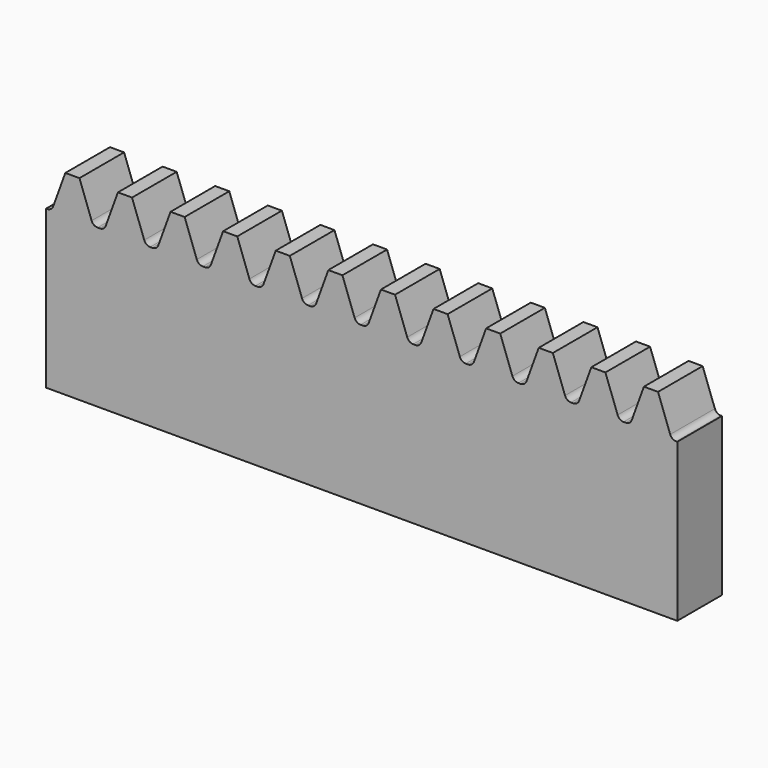
from build123d import *

# Parameters (mm, degrees)
F2_DEPTH = 10


with BuildPart() as f2:
    # F1 (on Front) → F2 (new body)
    with BuildSketch(Plane.XZ):
        with BuildLine():
            Line((3.4480698746, 29.0000970366), (1.2642837874, 35))
            Line((1.2642837874, 35), (-1.2642837874, 35))
            Line((-1.2642837874, 35), (-3.4480698746, 29.0000970366))
            ThreePointArc((-3.4480698746, 29.0000970366), (-3.8654423248, 28.4561666695), (-4.5193194622, 28.25))
            Line((-4.5193194622, 28.25), (-4.7123889804, 28.25))
            Line((-4.7123889804, 28.25), (-4.7123889804, 0))
            Line((-4.7123889804, 0), (4.7123889804, 0))
            Line((4.7123889804, 0), (4.7123889804, 28.25))
            Line((4.7123889804, 28.25), (4.5193194622, 28.25))
            ThreePointArc((4.5193194622, 28.25), (3.8654423248, 28.4561666695), (3.4480698746, 29.0000970366))
        make_face()
        with BuildLine():
            Line((4.9054584985, 28.25), (4.7123889804, 28.25))
            Line((4.7123889804, 28.25), (4.7123889804, 0))
            Line((4.7123889804, 0), (14.1371669412, 0))
            Line((14.1371669412, 0), (14.1371669412, 28.25))
            Line((14.1371669412, 28.25), (13.944097423, 28.25))
            ThreePointArc((13.944097423, 28.25), (13.2902202856, 28.4561666695), (12.8728478353, 29.0000970366))
            Line((12.8728478353, 29.0000970366), (10.6890617482, 35))
            Line((10.6890617482, 35), (8.1604941734, 35))
            Line((8.1604941734, 35), (5.9767080862, 29.0000970366))
            ThreePointArc((5.9767080862, 29.0000970366), (5.559335636, 28.4561666695), (4.9054584985, 28.25))
        make_face()
        with BuildLine():
            Line((14.1371669412, 28.25), (14.1371669412, 0))
            Line((14.1371669412, 0), (23.5619449019, 0))
            Line((23.5619449019, 0), (23.5619449019, 28.25))
            Line((23.5619449019, 28.25), (23.3688753838, 28.25))
            ThreePointArc((23.3688753838, 28.25), (22.7149982463, 28.4561666695), (22.2976257961, 29.0000970366))
            Line((22.2976257961, 29.0000970366), (20.1138397089, 35))
            Line((20.1138397089, 35), (17.5852721341, 35))
            Line((17.5852721341, 35), (15.401486047, 29.0000970366))
            ThreePointArc((15.401486047, 29.0000970366), (14.9841135967, 28.4561666695), (14.3302364593, 28.25))
            Line((14.3302364593, 28.25), (14.1371669412, 28.25))
        make_face()
        with BuildLine():
            Line((23.5619449019, 28.25), (23.5619449019, 0))
            Line((23.5619449019, 0), (32.9867228627, 0))
            Line((32.9867228627, 0), (32.9867228627, 28.25))
            Line((32.9867228627, 28.25), (32.7936533446, 28.25))
            ThreePointArc((32.7936533446, 28.25), (32.1397762071, 28.4561666695), (31.7224037569, 29.0000970366))
            Line((31.7224037569, 29.0000970366), (29.5386176697, 35))
            Line((29.5386176697, 35), (27.0100500949, 35))
            Line((27.0100500949, 35), (24.8262640078, 29.0000970366))
            ThreePointArc((24.8262640078, 29.0000970366), (24.4088915575, 28.4561666695), (23.7550144201, 28.25))
            Line((23.7550144201, 28.25), (23.5619449019, 28.25))
        make_face()
        with BuildLine():
            Line((32.9867228627, 28.25), (32.9867228627, 0))
            Line((32.9867228627, 0), (42.4115008235, 0))
            Line((42.4115008235, 0), (42.4115008235, 28.25))
            Line((42.4115008235, 28.25), (42.2184313053, 28.25))
            ThreePointArc((42.2184313053, 28.25), (41.5645541679, 28.4561666695), (41.1471817176, 29.0000970366))
            Line((41.1471817176, 29.0000970366), (38.9633956305, 35))
            Line((38.9633956305, 35), (36.4348280557, 35))
            Line((36.4348280557, 35), (34.2510419685, 29.0000970366))
            ThreePointArc((34.2510419685, 29.0000970366), (33.8336695183, 28.4561666695), (33.1797923808, 28.25))
            Line((33.1797923808, 28.25), (32.9867228627, 28.25))
        make_face()
        with BuildLine():
            Line((42.4115008235, 28.25), (42.4115008235, 0))
            Line((42.4115008235, 0), (51.8362787842, 0))
            Line((51.8362787842, 0), (51.8362787842, 28.25))
            Line((51.8362787842, 28.25), (51.6432092661, 28.25))
            ThreePointArc((51.6432092661, 28.25), (50.9893321287, 28.4561666695), (50.5719596784, 29.0000970366))
            Line((50.5719596784, 29.0000970366), (48.3881735912, 35))
            Line((48.3881735912, 35), (45.8596060165, 35))
            Line((45.8596060165, 35), (43.6758199293, 29.0000970366))
            ThreePointArc((43.6758199293, 29.0000970366), (43.258447479, 28.4561666695), (42.6045703416, 28.25))
            Line((42.6045703416, 28.25), (42.4115008235, 28.25))
        make_face()
        with BuildLine():
            Line((51.8362787842, 28.25), (51.8362787842, 0))
            Line((51.8362787842, 0), (61.261056745, 0))
            Line((61.261056745, 0), (61.261056745, 28.25))
            Line((61.261056745, 28.25), (61.0679872269, 28.25))
            ThreePointArc((61.0679872269, 28.25), (60.4141100894, 28.4561666695), (59.9967376392, 29.0000970366))
            Line((59.9967376392, 29.0000970366), (57.812951552, 35))
            Line((57.812951552, 35), (55.2843839772, 35))
            Line((55.2843839772, 35), (53.1005978901, 29.0000970366))
            ThreePointArc((53.1005978901, 29.0000970366), (52.6832254398, 28.4561666695), (52.0293483024, 28.25))
            Line((52.0293483024, 28.25), (51.8362787842, 28.25))
        make_face()
        with BuildLine():
            Line((61.261056745, 28.25), (61.261056745, 0))
            Line((61.261056745, 0), (70.6858347058, 0))
            Line((70.6858347058, 0), (70.6858347058, 28.25))
            Line((70.6858347058, 28.25), (70.4927651876, 28.25))
            ThreePointArc((70.4927651876, 28.25), (69.8388880502, 28.4561666695), (69.4215155999, 29.0000970366))
            Line((69.4215155999, 29.0000970366), (67.2377295128, 35))
            Line((67.2377295128, 35), (64.709161938, 35))
            Line((64.709161938, 35), (62.5253758508, 29.0000970366))
            ThreePointArc((62.5253758508, 29.0000970366), (62.1080034006, 28.4561666695), (61.4541262631, 28.25))
            Line((61.4541262631, 28.25), (61.261056745, 28.25))
        make_face()
        with BuildLine():
            Line((70.6858347058, 28.25), (70.6858347058, 0))
            Line((70.6858347058, 0), (80.1106126665, 0))
            Line((80.1106126665, 0), (80.1106126665, 28.25))
            Line((80.1106126665, 28.25), (79.9175431484, 28.25))
            ThreePointArc((79.9175431484, 28.25), (79.263666011, 28.4561666695), (78.8462935607, 29.0000970366))
            Line((78.8462935607, 29.0000970366), (76.6625074735, 35))
            Line((76.6625074735, 35), (74.1339398988, 35))
            Line((74.1339398988, 35), (71.9501538116, 29.0000970366))
            ThreePointArc((71.9501538116, 29.0000970366), (71.5327813613, 28.4561666695), (70.8789042239, 28.25))
            Line((70.8789042239, 28.25), (70.6858347058, 28.25))
        make_face()
        with BuildLine():
            Line((80.1106126665, 28.25), (80.1106126665, 0))
            Line((80.1106126665, 0), (89.5353906273, 0))
            Line((89.5353906273, 0), (89.5353906273, 28.25))
            Line((89.5353906273, 28.25), (89.3423211092, 28.25))
            ThreePointArc((89.3423211092, 28.25), (88.6884439717, 28.4561666695), (88.2710715215, 29.0000970366))
            Line((88.2710715215, 29.0000970366), (86.0872854343, 35))
            Line((86.0872854343, 35), (83.5587178595, 35))
            Line((83.5587178595, 35), (81.3749317724, 29.0000970366))
            ThreePointArc((81.3749317724, 29.0000970366), (80.9575593221, 28.4561666695), (80.3036821847, 28.25))
            Line((80.3036821847, 28.25), (80.1106126665, 28.25))
        make_face()
        with BuildLine():
            Line((89.5353906273, 28.25), (89.5353906273, 0))
            Line((89.5353906273, 0), (98.9601685881, 0))
            Line((98.9601685881, 0), (98.9601685881, 28.25))
            Line((98.9601685881, 28.25), (98.7670990699, 28.25))
            ThreePointArc((98.7670990699, 28.25), (98.1132219325, 28.4561666695), (97.6958494822, 29.0000970366))
            Line((97.6958494822, 29.0000970366), (95.5120633951, 35))
            Line((95.5120633951, 35), (92.9834958203, 35))
            Line((92.9834958203, 35), (90.7997097331, 29.0000970366))
            ThreePointArc((90.7997097331, 29.0000970366), (90.3823372829, 28.4561666695), (89.7284601454, 28.25))
            Line((89.7284601454, 28.25), (89.5353906273, 28.25))
        make_face()
        with BuildLine():
            Line((98.9601685881, 28.25), (98.9601685881, 0))
            Line((98.9601685881, 0), (108.3849465488, 0))
            Line((108.3849465488, 0), (108.3849465488, 28.25))
            Line((108.3849465488, 28.25), (108.1918770307, 28.25))
            ThreePointArc((108.1918770307, 28.25), (107.5379998933, 28.4561666695), (107.120627443, 29.0000970366))
            Line((107.120627443, 29.0000970366), (104.9368413559, 35))
            Line((104.9368413559, 35), (102.4082737811, 35))
            Line((102.4082737811, 35), (100.2244876939, 29.0000970366))
            ThreePointArc((100.2244876939, 29.0000970366), (99.8071152437, 28.4561666695), (99.1532381062, 28.25))
            Line((99.1532381062, 28.25), (98.9601685881, 28.25))
        make_face()
    extrude(amount=F2_DEPTH)


solid = f2.part
